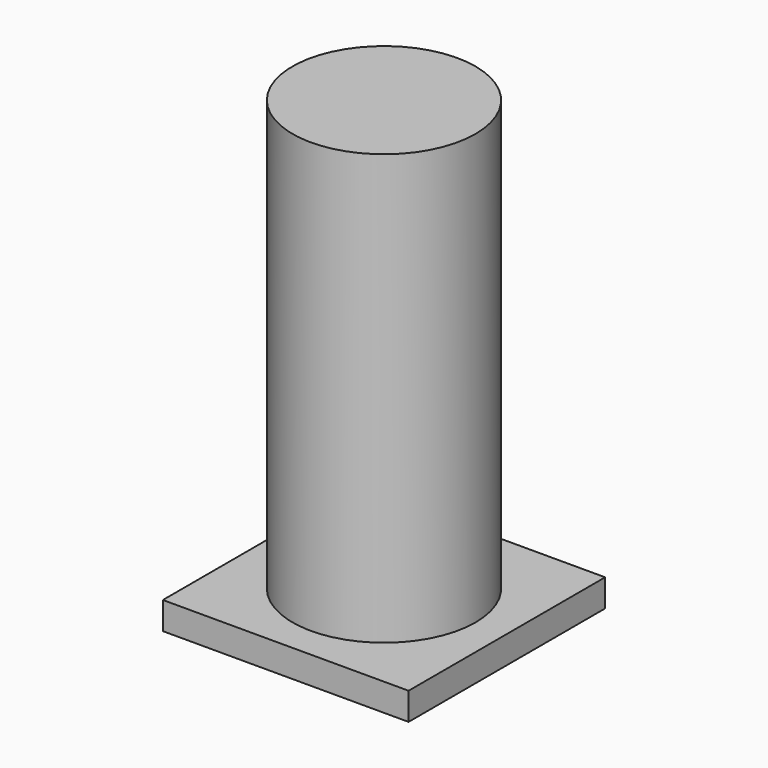
from build123d import *

# Parameters (mm, degrees)
F0_W     = 33.333
F0_H     = 166.666
F2_W     = 89.51439
F2_H     = 89.51439
F3_DEPTH = 10


with BuildPart() as f1:
    # F0 (on Front) → F1 (revolve)
    with BuildSketch(Plane.XZ):
        with Locations((16.6665, 83.333)):
            Rectangle(F0_W, F0_H)
    revolve(axis=Axis((0, 0, 83.333), (0, 0, -1)))

    # F2 (on Top) → F3 (join)
    with BuildSketch(Plane.XY):
        Rectangle(F2_W, F2_H)
    extrude(amount=F3_DEPTH)


solid = f1.part
